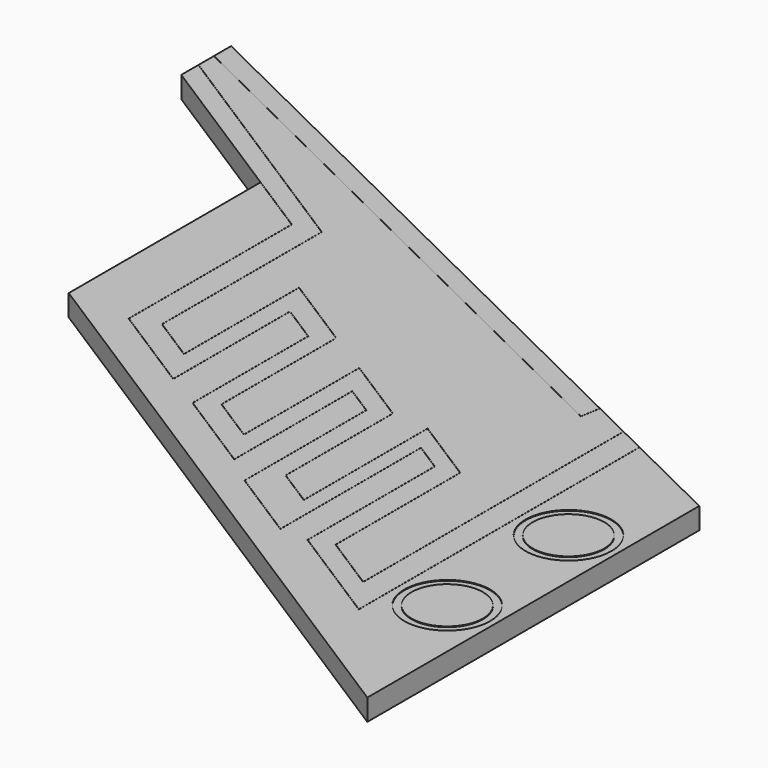
from build123d import *

# Parameters (mm, degrees)
PAD003_DEPTH    = 0.3
POCKET010_DEPTH = 0.01
SKETCH013_R     = 0.6
SKETCH013_R_2   = 0.5
POCKET011_DEPTH = 0.01


with BuildPart() as part:
    # Sketch011 (on Face1 of Binder003) → Pad003 (new body)
    with BuildSketch(Plane.XY.offset(10.4)):
        Polygon((-19.4323216564, 57.1457720205), (-8.6424528439, 51.8447536362), (-8.6424528439, 46.0404628521), (-17.1675073393, 51.475587093), (-17.1675073393, 54.8303925061), (-19.4323216564, 56.2743184309), align=None)
    extrude(amount=PAD003_DEPTH)

    # Sketch012 (on Face8 of Pad003) → Pocket010 (cut)
    with BuildSketch(Plane.XY.offset(10.7)):
        with BuildLine():
            ThreePointArc((-17.1680102852, 54.8296036297), (-17.1682962157, 54.830895452), (-17.1670043933, 54.8311813826))
            Line((-16.2781124515, 54.2644708538), (-17.1670043933, 54.8311813826))
            ThreePointArc((-16.2781124515, 54.2644708538), (-16.2777950868, 54.2641318342), (-16.2776798331, 54.2636819774))
            Line((-16.2776798331, 51.4133038281), (-16.2776798331, 54.2636819774))
            Line((-15.0083915015, 50.6040726633), (-16.2776798331, 51.4133038281))
            Line((-15.0083915015, 52.6441603332), (-15.0083915015, 50.6040726633))
            ThreePointArc((-15.0083915015, 52.6441603332), (-15.007905794, 52.6449806438), (-15.0069529912, 52.6449492096))
            Line((-14.4863721114, 52.3130543507), (-15.0069529912, 52.6449492096))
            ThreePointArc((-14.4863721114, 52.3130543507), (-14.4860547467, 52.3127153311), (-14.4859394929, 52.3122654742))
            Line((-14.4859394929, 50.2913505742), (-14.4859394929, 52.3122654742))
            Line((-13.2994153548, 49.5348854854), (-14.4859394929, 50.2913505742))
            Line((-13.2994153548, 51.5968758055), (-13.2994153548, 49.5348854854))
            ThreePointArc((-13.2994153548, 51.5968758055), (-13.2989296473, 51.5976961161), (-13.2979768445, 51.5976646819))
            Line((-12.8977486949, 51.3425003638), (-13.2979768445, 51.5976646819))
            ThreePointArc((-12.8977486949, 51.3425003638), (-12.8974313302, 51.3421613442), (-12.8973160765, 51.3417114873))
            Line((-12.8973160765, 49.2142707243), (-12.8973160765, 51.3417114873))
            Line((-11.8767881569, 48.5636360524), (-12.8973160765, 49.2142707243))
            Line((-11.8767881569, 51.0200362699), (-11.8767881569, 48.5636360524))
            ThreePointArc((-11.8767881569, 51.0200362699), (-11.8763024494, 51.0208565805), (-11.8753496466, 51.0208251463))
            Line((-11.4818992574, 50.76998197), (-11.8753496466, 51.0208251463))
            ThreePointArc((-11.4818992574, 50.76998197), (-11.4815818927, 50.7696429504), (-11.481466639, 50.7691930936))
            Line((-11.481466639, 48.5457383169), (-11.481466639, 50.7691930936))
            Line((-10.0200536237, 47.6140186066), (-11.481466639, 48.5457383169))
            Line((-10.0200536237, 52.5211036218), (-10.0200536237, 47.6140186066))
            ThreePointArc((-10.0200536237, 52.5211036218), (-10.0191180594, 52.5220391862), (-10.018182495, 52.5211036218))
            Line((-10.018182495, 52.5211036218), (-10.018182495, 47.612312612))
            ThreePointArc((-10.018182495, 47.612312612), (-10.0186682025, 47.6114923014), (-10.0196210053, 47.6115237355))
            Line((-10.0196210053, 47.6115237355), (-11.4829051493, 48.5444363786))
            ThreePointArc((-11.4829051493, 48.5444363786), (-11.4832225139, 48.5447753982), (-11.4833377677, 48.5452252551))
            Line((-11.4833377677, 48.5452252551), (-11.4833377677, 50.7686800318))
            Line((-11.4833377677, 50.7686800318), (-11.8749170282, 51.0183302753))
            Line((-11.8749170282, 51.0183302753), (-11.8749170282, 48.5619300578))
            ThreePointArc((-11.8749170282, 48.5619300578), (-11.8754027357, 48.5611097472), (-11.8763555385, 48.5611411814))
            Line((-11.8763555385, 48.5611411814), (-12.8987545868, 49.212968786))
            ThreePointArc((-12.8987545868, 49.212968786), (-12.8990719514, 49.2133078056), (-12.8991872052, 49.2137576625))
            Line((-12.8991872052, 49.2137576625), (-12.8991872052, 51.3411984255))
            Line((-12.8991872052, 51.3411984255), (-13.2975442261, 51.5951698109))
            Line((-13.2975442261, 51.5951698109), (-13.2975442261, 49.5331794908))
            ThreePointArc((-13.2975442261, 49.5331794908), (-13.2980299336, 49.5323591802), (-13.2989827364, 49.5323906144))
            Line((-13.2989827364, 49.5323906144), (-14.4873780032, 50.290048636))
            ThreePointArc((-14.4873780032, 50.290048636), (-14.4876953679, 50.2903876556), (-14.4878106217, 50.2908375124))
            Line((-14.4878106217, 50.2908375124), (-14.4878106217, 52.3117524124))
            Line((-14.4878106217, 52.3117524124), (-15.0065203728, 52.6424543386))
            Line((-15.0065203728, 52.6424543386), (-15.0065203728, 50.6023666687))
            ThreePointArc((-15.0065203728, 50.6023666687), (-15.0070060803, 50.6015463581), (-15.0079588831, 50.6015777923))
            Line((-15.0079588831, 50.6015777923), (-16.2791183434, 51.4120018899))
            ThreePointArc((-16.2791183434, 51.4120018899), (-16.279435708, 51.4123409095), (-16.2795509618, 51.4127907663))
            Line((-16.2795509618, 51.4127907663), (-16.2795509618, 54.2631689156))
            Line((-16.2795509618, 54.2631689156), (-17.1680102852, 54.8296036297))
        make_face()
        with BuildLine():
            ThreePointArc((-12.1034421253, 49.2570922966), (-12.1039278328, 49.256271986), (-12.1048806356, 49.2563034202))
            Line((-12.6231672786, 49.586735595), (-12.1048806356, 49.2563034202))
            ThreePointArc((-12.6231672786, 49.586735595), (-12.6234846433, 49.5870746146), (-12.623599897, 49.5875244715))
            Line((-12.623599897, 51.4611507189), (-12.623599897, 49.5875244715))
            Line((-13.5809929357, 52.0715339271), (-12.623599897, 51.4611507189))
            Line((-13.5809929357, 50.0556339524), (-13.5809929357, 52.0715339271))
            ThreePointArc((-13.5809929357, 50.0556339524), (-13.5814786432, 50.0548136418), (-13.582431446, 50.054845076))
            Line((-14.2213964306, 50.4622153841), (-13.582431446, 50.054845076))
            ThreePointArc((-14.2213964306, 50.4622153841), (-14.2217137952, 50.4625544037), (-14.221829049, 50.4630042606))
            Line((-14.221829049, 52.4689756862), (-14.221829049, 50.4630042606))
            Line((-15.2821151216, 53.1449580554), (-14.221829049, 52.4689756862))
            Line((-15.2821151216, 51.1350597086), (-15.2821151216, 53.1449580554))
            ThreePointArc((-15.2821151216, 51.1350597086), (-15.2826008291, 51.134239398), (-15.2835536319, 51.1342708322))
            Line((-15.9119518491, 51.5349043279), (-15.2835536319, 51.1342708322))
            ThreePointArc((-15.9119518491, 51.5349043279), (-15.9122692138, 51.5352433475), (-15.9123844675, 51.5356932043))
            Line((-15.9123844675, 54.3290829617), (-15.9123844675, 51.5356932043))
            Line((-19.4328246024, 56.5735295545), (-15.9123844675, 54.3290829617))
            ThreePointArc((-19.4328246024, 56.5735295545), (-19.4331105329, 56.5748213769), (-19.4318187105, 56.5751073074))
            Line((-19.4318187105, 56.5751073074), (-15.9109459572, 54.3303848999))
            ThreePointArc((-15.9109459572, 54.3303848999), (-15.9106285926, 54.3300458803), (-15.9105133388, 54.3295960235))
            Line((-15.9105133388, 54.3295960235), (-15.9105133388, 51.5362062661))
            Line((-15.9105133388, 51.5362062661), (-15.2839862503, 51.1367657032))
            Line((-15.2839862503, 51.1367657032), (-15.2839862503, 53.14666405))
            ThreePointArc((-15.2839862503, 53.14666405), (-15.2835005428, 53.1474843606), (-15.28254774, 53.1474529265))
            Line((-15.28254774, 53.1474529265), (-14.2203905387, 52.4702776245))
            ThreePointArc((-14.2203905387, 52.4702776245), (-14.220073174, 52.4699386049), (-14.2199579203, 52.469488748))
            Line((-14.2199579203, 52.469488748), (-14.2199579203, 50.4635173224))
            Line((-14.2199579203, 50.4635173224), (-13.5828640644, 50.057339947))
            Line((-13.5828640644, 50.057339947), (-13.5828640644, 52.0732399217))
            ThreePointArc((-13.5828640644, 52.0732399217), (-13.5823783569, 52.0740602323), (-13.5814255541, 52.0740287981))
            Line((-13.5814255541, 52.0740287981), (-12.6221613867, 51.4624526572))
            ThreePointArc((-12.6221613867, 51.4624526572), (-12.6218440221, 51.4621136376), (-12.6217287683, 51.4616637807))
            Line((-12.6217287683, 51.4616637807), (-12.6217287683, 49.5880375333))
            Line((-12.6217287683, 49.5880375333), (-12.105313254, 49.2587982912))
            Line((-12.105313254, 49.2587982912), (-12.105313254, 51.4206091267))
            ThreePointArc((-12.105313254, 51.4206091267), (-12.1048275465, 51.4214294373), (-12.1038747437, 51.4213980031))
            Line((-12.1038747437, 51.4213980031), (-11.1719060657, 50.8272240238))
            ThreePointArc((-11.1719060657, 50.8272240238), (-11.171588701, 50.8268850042), (-11.1714734473, 50.8264351473))
            Line((-11.1714734473, 50.8264351473), (-11.1714734473, 48.649445714))
            Line((-11.1714734473, 48.649445714), (-10.387665926, 48.1497314586))
            Line((-10.387665926, 48.1497314586), (-10.387665926, 52.7017100413))
            ThreePointArc((-10.387665926, 52.7017100413), (-10.3867303616, 52.7026456056), (-10.3857947972, 52.7017100413))
            Line((-10.3857947972, 48.148025464), (-10.3857947972, 52.7017100413))
            ThreePointArc((-10.3857947972, 48.148025464), (-10.3862805047, 48.1472051534), (-10.3872333075, 48.1472365875))
            Line((-11.1729119576, 48.6481437757), (-10.3872333075, 48.1472365875))
            ThreePointArc((-11.1729119576, 48.6481437757), (-11.1732293222, 48.6484827953), (-11.173344576, 48.6489326522))
            Line((-11.173344576, 50.8259220855), (-11.173344576, 48.6489326522))
            Line((-12.1034421253, 51.4189031321), (-11.173344576, 50.8259220855))
            Line((-12.1034421253, 49.2570922966), (-12.1034421253, 51.4189031321))
        make_face()
        with BuildLine():
            ThreePointArc((-10.9311455672, 52.9688822106), (-10.9300667853, 52.9696482334), (-10.9293007625, 52.9685694515))
            Line((-10.9527757478, 52.8301026156), (-10.9293007625, 52.9685694515))
            Line((-10.976250733, 52.6916357798), (-10.9527757478, 52.8301026156))
            ThreePointArc((-10.976250733, 52.6916357798), (-10.9767468482, 52.6909593569), (-10.9775856752, 52.690952462))
            Line((-19.4327341963, 56.8449323232), (-10.9775856752, 52.690952462))
            ThreePointArc((-19.4327341963, 56.8449323232), (-19.4331613537, 56.8461845604), (-19.4319091166, 56.8466117178))
            Line((-19.4319091166, 56.8466117178), (-10.9778859578, 52.6931847425))
            Line((-10.9778859578, 52.6931847425), (-10.9546205525, 52.8304153747))
            Line((-10.9546205525, 52.8304153747), (-10.9311455672, 52.9688822106))
        make_face()
    extrude(amount=-POCKET010_DEPTH, mode=Mode.SUBTRACT)

    # Sketch013 (on Face4 of Pocket010) → Pocket011 (cut)
    with BuildSketch(Plane.XY.offset(10.7)):
        with Locations((-9.324359, 50.411007)):
            Circle(SKETCH013_R)
        with Locations((-9.324359, 50.411007)):
            Circle(SKETCH013_R_2, mode=Mode.SUBTRACT)
        with Locations((-9.324359, 48.290222)):
            Circle(SKETCH013_R)
        with Locations((-9.324359, 48.290222)):
            Circle(SKETCH013_R_2, mode=Mode.SUBTRACT)
    extrude(amount=-POCKET011_DEPTH, mode=Mode.SUBTRACT)


solid = part.part
